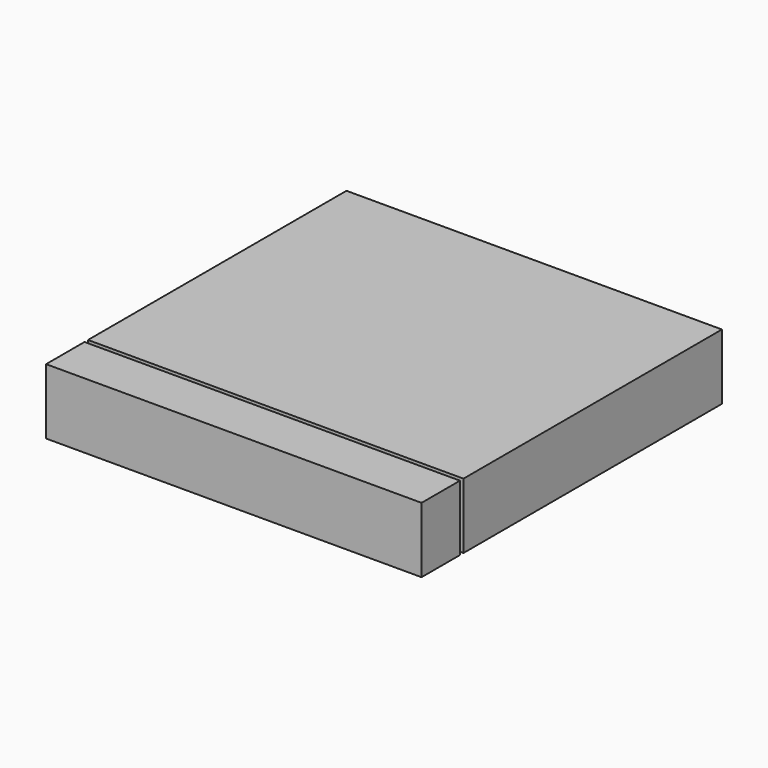
from build123d import *

# Parameters (mm, degrees)
F0_W     = 43
F0_H     = 11
F1_DEPTH = 15
F2_W     = 3
F2_H     = 5
F3_DEPTH = 8
F4_W     = 28
F4_H     = 28
F5_DEPTH = 15
F6_DEPTH = 12


with BuildPart() as f1:
    # F0 (on Top) → F1 (new body)
    with BuildSketch(Plane.XY):
        with Locations((-21.5, -37.5)):
            Rectangle(F0_W, F0_H)
        with Locations((21.5, -37.5)):
            Rectangle(F0_W, F0_H)
    extrude(amount=F1_DEPTH)

    # F2 (on Top) → F3 (cut)
    with BuildSketch(Plane.XY):
        with Locations((-31.5, -37.5)):
            Rectangle(F2_W, F2_H)
        with Locations((31.5, -37.5)):
            Rectangle(F2_W, F2_H)
    extrude(amount=F3_DEPTH, mode=Mode.SUBTRACT)


with BuildPart() as f5:
    # F4 (on Top) → F5 (new body)
    with BuildSketch(Plane.XY):
        Polygon((-28, 28), (0, 28), (0, 43), (-43, 43), (-43, 0), (-28, 0), align=None)
        Polygon((0, 43), (0, 28), (28, 28), (28, 0), (28, -28), (0, -28), (0, -31), (43, -31), (43, 0), (43, 43), align=None)
        Polygon((-28, -28), (-28, 0), (-43, 0), (-43, -31), (0, -31), (0, -28), align=None)
        Polygon((0, 28), (0, 0), (0, -28), (28, -28), (28, 0), (28, 28), align=None)
        with Locations((-14, -14)):
            Rectangle(F4_W, F4_H)
        with Locations((-14, 14)):
            Rectangle(F4_W, F4_H)
    extrude(amount=F5_DEPTH)

    # F4 (on Top) → F6 (cut)
    with BuildSketch(Plane.XY):
        Polygon((0, 28), (0, 0), (0, -28), (28, -28), (28, 0), (28, 28), align=None)
        with Locations((-14, 14)):
            Rectangle(F4_W, F4_H)
        with Locations((-14, -14)):
            Rectangle(F4_W, F4_H)
    extrude(amount=F6_DEPTH, mode=Mode.SUBTRACT)


with BuildPart() as f1_1:
    # F7: moved
    add(f1.part.moved(Location((0, 0, 43))))


with BuildPart() as f5_1:
    # F7: moved
    add(f5.part.moved(Location((0, 0, 43))))


solid = Compound([f1_1.part, f5_1.part])
